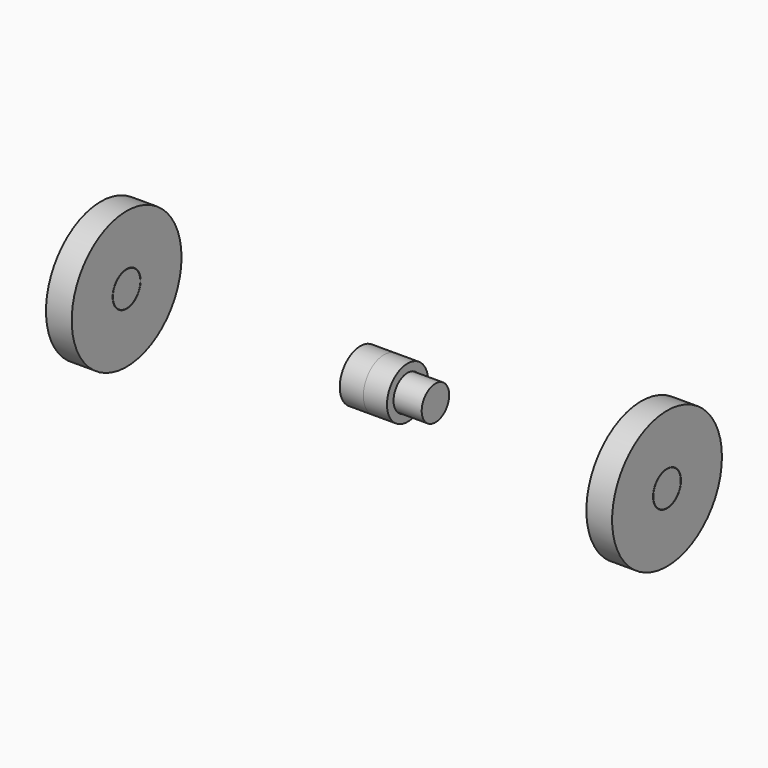
from build123d import *

# Parameters (mm, degrees)
F0_R     = 2.54
F0_R_2   = 0.9525
F1_DEPTH = 0.9525
F0_R_3   = 0.635
F2_DEPTH = 0.9525
F0_R_4   = 0.6477
F4_DEPTH = 1.905
F5_DEPTH = 0.87376


with BuildPart() as f1:
    # F0 (on Right) → F1 (new body)
    with BuildSketch(Plane.YZ):
        Circle(F0_R)
        Circle(F0_R_2, mode=Mode.SUBTRACT)
    extrude(amount=F1_DEPTH)

    # F0 (on Right) → F2, piece 2 (join)
    with BuildSketch(Plane.YZ):
        Circle(F0_R_2)
        Circle(F0_R_4, mode=Mode.SUBTRACT)
    extrude(amount=F2_DEPTH)


with BuildPart() as f2:
    # F0 (on Right) → F2 (new body)
    with BuildSketch(Plane.YZ):
        Circle(F0_R_3)
    extrude(amount=F2_DEPTH)


with BuildPart() as f1_1:
    # F3: moved
    add(f1.part.moved(Location((9.525, 0, 0))))


with BuildPart() as f2_1:
    # F3: moved
    add(f2.part.moved(Location((9.525, 0, 0))))


with BuildPart() as f4:
    # F0 (on Right) → F4 (new body)
    with BuildSketch(Plane.YZ):
        Circle(F0_R_3)
    extrude(amount=F4_DEPTH)


with BuildPart() as f5:
    # F0 (on Right) → F5 (new body)
    with BuildSketch(Plane.YZ):
        Circle(F0_R_2)
        Circle(F0_R_4, mode=Mode.SUBTRACT)
    extrude(amount=F5_DEPTH)


with BuildPart() as f6_1:
    # F6: instance of F1
    add(f1_1.part.mirror(Plane.YZ))


with BuildPart() as f6_2:
    # F6: instance of F2
    add(f2_1.part.mirror(Plane.YZ))


with BuildPart() as f6_3:
    # F6: instance of F5
    add(f5.part.mirror(Plane.YZ))


solid = Compound([f1_1.part, f2_1.part, f4.part, f5.part, f6_1.part, f6_2.part, f6_3.part])
